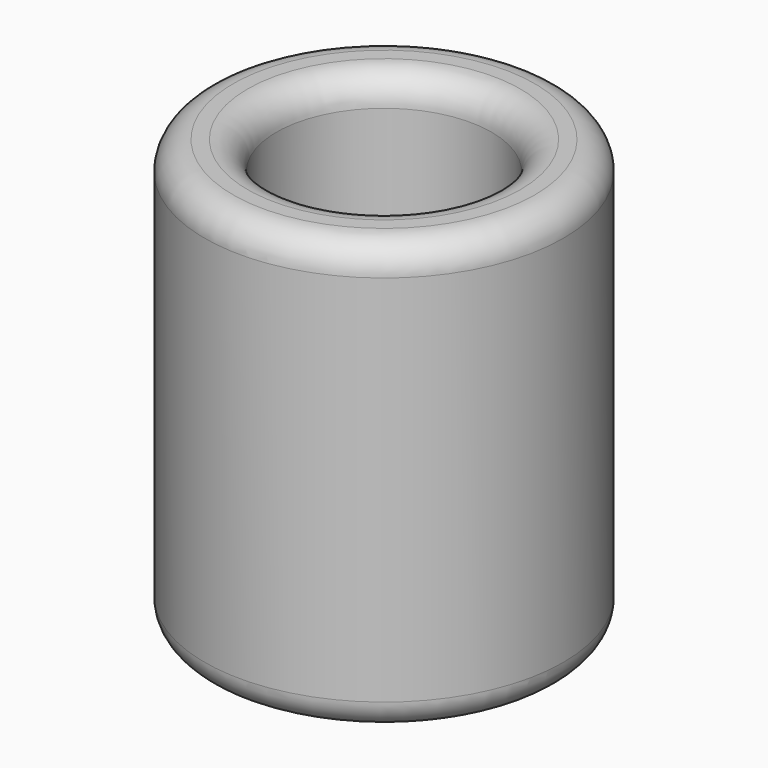
from build123d import *

# Parameters (mm, degrees)
SKETCH_R   = 1.25
SKETCH_R_2 = 0.75
PAD_DEPTH  = 3
FILLET_R   = 0.2


with BuildPart() as part:
    # Sketch → Pad (new body)
    with BuildSketch(Plane.XY):
        Circle(SKETCH_R)
        Circle(SKETCH_R_2, mode=Mode.SUBTRACT)
    extrude(amount=PAD_DEPTH)

    # Fillet
    fillet_edges = [part.edges().sort_by_distance(p)[0] for p in [
        (1.25, 0, 1.5),
        (-1.25, 0, 0),
        (-1.25, 0, 3),
        (0.75, 0, 1.5),
        (-0.75, 0, 0),
        (-0.75, 0, 3),
    ]]
    fillet(fillet_edges, radius=FILLET_R)


solid = part.part
